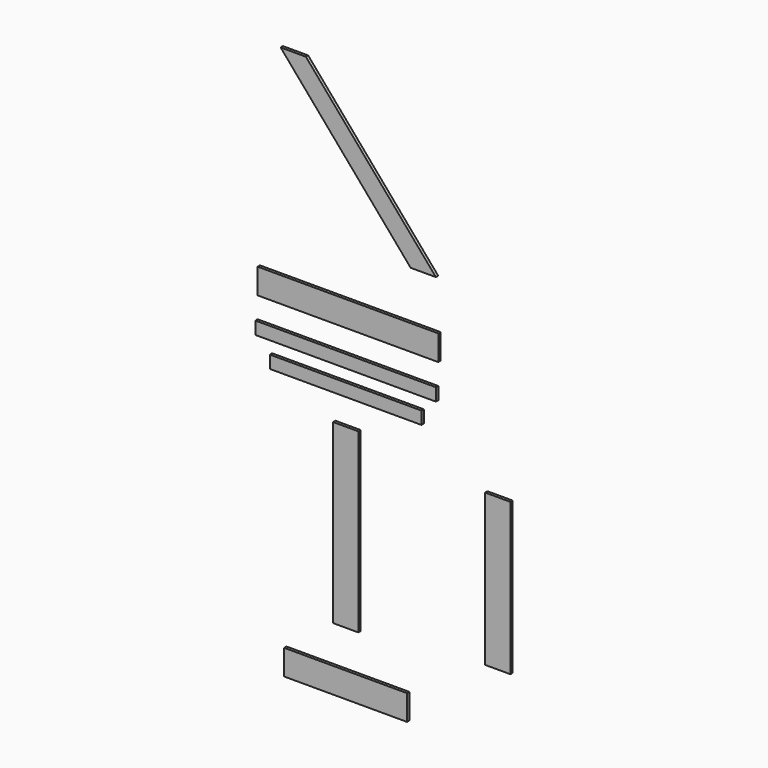
from build123d import *

# Parameters (mm, degrees)
F0_W     = 1250
F0_H     = 175
F1_DEPTH = 20
F2_W     = 1250
F2_H     = 87.5
F2_W_2   = 1050
F3_DEPTH = 20
F5_DEPTH = 20
F6_W     = 175
F6_H     = 1225
F6_W_2   = 850
F6_H_2   = 175
F6_H_3   = 1050
F7_DEPTH = 20


with BuildPart() as f1:
    # F0 (on Front) → F1 (new body)
    with BuildSketch(Plane.XZ):
        Rectangle(F0_W, F0_H)
    extrude(amount=F1_DEPTH)


with BuildPart() as f3:
    # F2 (on face) → F3 (new body)
    with BuildSketch(Plane.XZ.offset(20)):
        with Locations((0, -276.508601)):
            Rectangle(F2_W, F2_H)
        with Locations((0, -451.082736)):
            Rectangle(F2_W_2, F2_H)
    extrude(amount=F3_DEPTH)


with BuildPart() as f5:
    # F4 (on face) → F5 (new body)
    with BuildSketch(Plane.XZ.offset(20)):
        Polygon((-275, 1488.151139), (-450, 1488.151139), (450, 438.151139), (625, 438.151139), align=None)
    extrude(amount=F5_DEPTH)


with BuildPart() as f7:
    # F6 (on face) → F7 (new body)
    with BuildSketch(Plane.XZ.offset(20)):
        with Locations((0, -1288.332105)):
            Rectangle(F6_W, F6_H)
        with Locations((0, -2248.803139)):
            Rectangle(F6_W_2, F6_H_2)
        with Locations((1052.668929, -1288.332105)):
            Rectangle(F6_W, F6_H_3)
    extrude(amount=F7_DEPTH)


solid = Compound([f1.part, f3.part, f5.part, f7.part])
